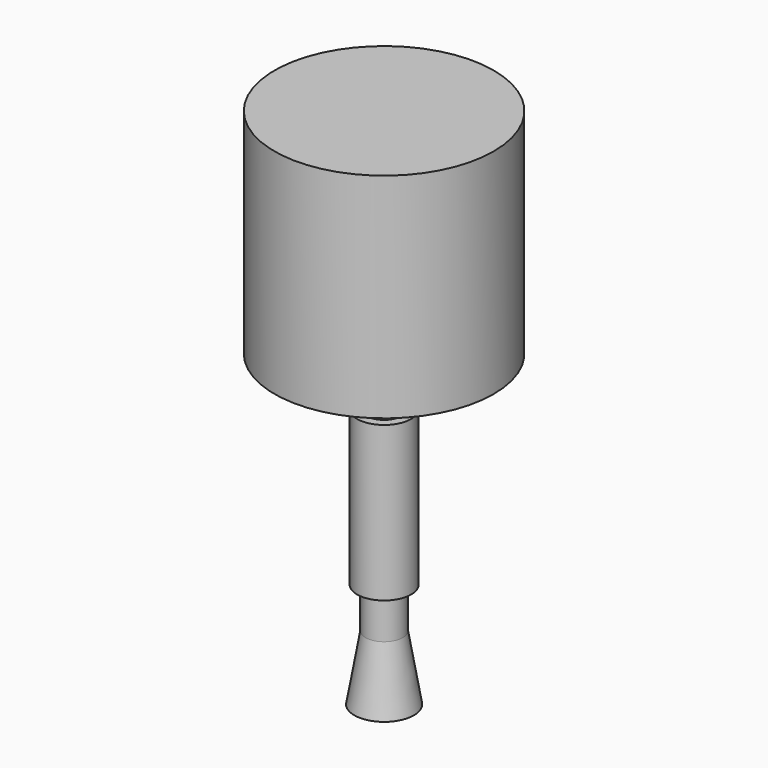
from build123d import *

# Parameters (mm, degrees)
F0_W   = 38.9583557844
F0_H   = 75.9382499057
F0_W_2 = 6.5562282689
F0_H_2 = 11.2140998244
F0_W_3 = 6.6408021376
F0_H_3 = 14.4509151578


with BuildPart() as f1:
    # F0 (on Front) → F1 (revolve)
    with BuildSketch(Plane.XZ):
        with Locations((19.4791778922, 24.6171006164)):
            Rectangle(F0_W, F0_H)
        Polygon((38.9583557844, -13.3520243364), (0, -13.3520243364), (0, -28.2193049788), (6.5562282689, -28.2193049788), align=None)
        Polygon((6.5562282689, -28.2193049788), (0, -28.2193049788), (0, -40.6660549343), (6.5562282689, -40.6660549343), (6.5562282689, -30.708655715), align=None)
        Polygon((9.5987673849, -30.708655715), (6.5562282689, -30.708655715), (6.5562282689, -40.6660549343), (6.5562282689, -71.4942961931), (6.5562282689, -82.7083960176), (9.5987673849, -82.7083960176), align=None)
        with Locations((3.2781141344, -77.1013461053)):
            Rectangle(F0_W_2, F0_H_2)
        Polygon((6.5562282689, -82.7083960176), (0, -82.7083960176), (0, -85.6381952763), (6.6408021376, -85.6381952763), (9.5987673849, -85.6381952763), (9.5987673849, -82.7083960176), align=None)
        with Locations((3.3204010688, -92.8636528552)):
            Rectangle(F0_W_3, F0_H_3)
        Polygon((6.6408021376, -100.0891104341), (0, -100.0891104341), (0, -123.1093853712), (10.5840368196, -123.1093853712), align=None)
    revolve(axis=Axis((0, 0, -39.0329621732), (0, 0, -1)))


with BuildPart() as f1_1:
    # F2: moved
    add(f1.part.moved(Location((0, 254, 0))))


solid = f1_1.part
